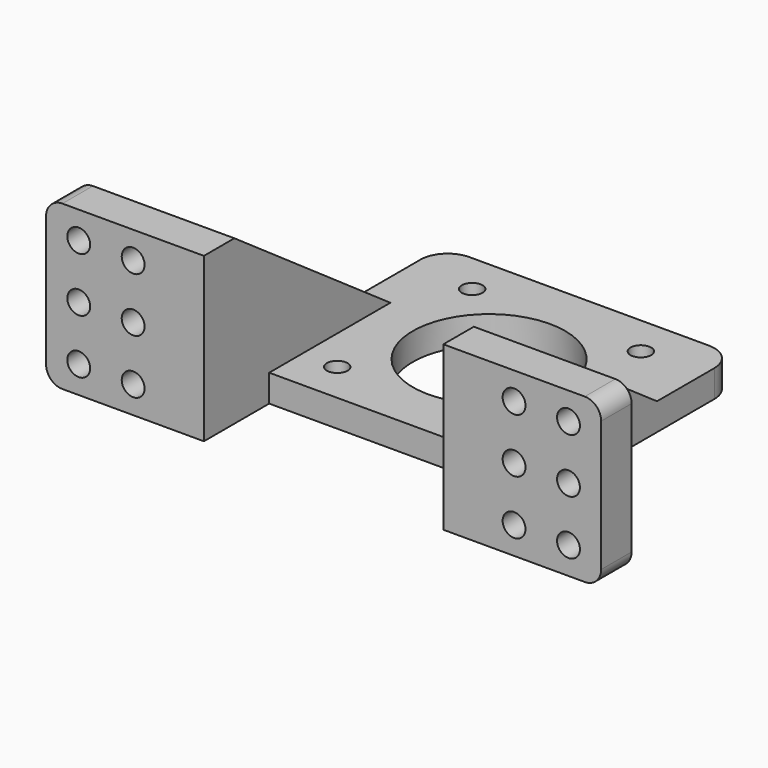
from build123d import *

# Parameters (mm, degrees)
CYLINDER006_R        = 1.9
CYLINDER006_DEPTH    = 10
ARRAY_X_COUNT        = 2
ARRAY_X_PITCH        = 31
ARRAY_Y_COUNT        = 2
ARRAY_Y_PITCH        = 31
CYLINDER009_R        = 2.1
CYLINDER009_DEPTH    = 10
ARRAY002_X_COUNT     = 3
ARRAY002_X_PITCH     = 10
ARRAY002_Y_COUNT     = 2
ARRAY002_Y_PITCH     = 10
BODY_PITCH_ANGLE     = -90
BODY_PLACEMENT_ANGLE = -90
CYLINDER005_R        = 14
CYLINDER005_DEPTH    = 20
PAD_DEPTH            = 5
BOX004_W             = 24
BOX004_H             = 7
BOX004_DEPTH         = 30
FILLET004_R          = 3
BOX003_W             = 54
BOX003_H             = 46
BOX003_DEPTH         = 5
FILLET001_R          = 5


with BuildPart() as stepper_bolt_hole_array:
    # Cylinder006 → Cylinder006 (new body)
    with BuildSketch(Plane(origin=(0, 38, 0), x_dir=(1, 0, 0), z_dir=(0, 0, 1))):
        Circle(CYLINDER006_R)
    extrude(amount=CYLINDER006_DEPTH)

    # Array X: stepper bolt hole array ×2


with BuildPart() as stepper_bolt_hole_array_1:
    add(stepper_bolt_hole_array.part)
    with Locations(*[(i * ARRAY_X_PITCH, 0, 0) for i in range(1, ARRAY_X_COUNT)]):
        add(stepper_bolt_hole_array.part)

    # Array Y: stepper bolt hole array ×2


with BuildPart() as stepper_bolt_hole_array_2:
    add(stepper_bolt_hole_array_1.part)
    with Locations(*[(0, i * ARRAY_Y_PITCH, 0) for i in range(1, ARRAY_Y_COUNT)]):
        add(stepper_bolt_hole_array_1.part)


with BuildPart() as stepper_bolt_hole_array_3:
    # Array placement: moved
    add(stepper_bolt_hole_array_2.part.moved(Location((-15.5, -15.5, 0))))


with BuildPart() as obj1:
    # Cylinder009 → Cylinder009 (new body)
    with BuildSketch(Plane.XY):
        Circle(CYLINDER009_R)
    extrude(amount=CYLINDER009_DEPTH)

    # Array002 X: obj1_3


with BuildPart() as obj1_1:
    add(obj1.part)
    with Locations(*[(i * ARRAY002_X_PITCH, 0, 0) for i in range(1, ARRAY002_X_COUNT)]):
        add(obj1.part)

    # Array002 Y: obj1_2


with BuildPart() as obj1_2:
    add(obj1_1.part)
    with Locations(*[(0, i * ARRAY002_Y_PITCH, 0) for i in range(1, ARRAY002_Y_COUNT)]):
        add(obj1_1.part)


with BuildPart() as obj1_3:
    # Body pitch: moved
    add(obj1_2.part.rotate(Axis((0, 0, 0), (0, 1, 0)), BODY_PITCH_ANGLE))


with BuildPart() as obj1_4:
    # Body placement: moved
    add(obj1_3.part.moved(Location((-45, 0, 5))).rotate(Axis((-45, 0, 5), (0, 0, 1)), BODY_PLACEMENT_ANGLE))


with BuildPart() as part_mirroring005:
    # Part__Mirroring005: instance of obj1
    add(obj1_4.part.mirror(Plane(origin=(0, 0, 0), x_dir=(0, -1, 0), z_dir=(1, 0, 0))))


with BuildPart() as stepper_wall_extract_fusion:
    # Cylinder005 → Cylinder005 (new body)
    with BuildSketch(Plane(origin=(0, 38, 0), x_dir=(1, 0, 0), z_dir=(0, 0, 1))):
        Circle(CYLINDER005_R)
    extrude(amount=CYLINDER005_DEPTH)

    # Fusion006: union stepper bolt hole array, Part__Mirroring005, obj1
    add(stepper_bolt_hole_array_3.part)
    add(part_mirroring005.part)
    add(obj1_4.part)


with BuildPart() as side_body:
    # Sketch → Pad (new body)
    with BuildSketch(Plane.YZ):
        Polygon((50, 0), (0, 0), (0, 30), (7, 30), align=None)
    extrude(amount=-PAD_DEPTH)


with BuildPart() as side_body_1:
    # Body001 placement: moved
    add(side_body.part.moved(Location((27, 0, 0))))


with BuildPart() as side_body_fusion:
    # Part__Mirroring002: instance of side body
    add(side_body_1.part.mirror(Plane(origin=(0, 0, 0), x_dir=(0, -1, 0), z_dir=(1, 0, 0))))

    # Fusion009: union side body
    add(side_body_1.part)


with BuildPart() as stepper_top_wall_fillet:
    # Box004 → Box004 (new body)
    with BuildSketch(Plane(origin=(27, 0, 0), x_dir=(1, 0, 0), z_dir=(0, 0, 1))):
        with Locations((12, 3.5)):
            Rectangle(BOX004_W, BOX004_H)
    extrude(amount=BOX004_DEPTH)

    # Fillet004
    fillet004_edges = [stepper_top_wall_fillet.edges().sort_by_distance(p)[0] for p in [
        (51, 3.5, 30),
        (51, 3.5, 0),
    ]]
    fillet(fillet004_edges, radius=FILLET004_R)


with BuildPart() as part_mirroring003:
    # Part__Mirroring003: instance of stepper top wall fillet
    add(stepper_top_wall_fillet.part.mirror(Plane(origin=(0, 0, 0), x_dir=(0, -1, 0), z_dir=(1, 0, 0))))


with BuildPart() as stepper_holder_cut:
    # Box003 → Box003 (new body)
    with BuildSketch(Plane(origin=(-27, 15, 0), x_dir=(1, 0, 0), z_dir=(0, 0, 1))):
        with Locations((27, 23)):
            Rectangle(BOX003_W, BOX003_H)
    extrude(amount=BOX003_DEPTH)

    # Fillet001
    fillet001_edges = [stepper_holder_cut.edges().sort_by_distance(p)[0] for p in [
        (-27, 61, 2.5),
        (27, 61, 2.5),
    ]]
    fillet(fillet001_edges, radius=FILLET001_R)

    # Fusion007: union stepper top wall fillet, Part__Mirroring003
    add(stepper_top_wall_fillet.part)
    add(part_mirroring003.part)

    # Fusion010: union side body fusion
    add(side_body_fusion.part)

    # Cut004002: cut stepper wall extract fusion
    add(stepper_wall_extract_fusion.part, mode=Mode.SUBTRACT)


solid = stepper_holder_cut.part
